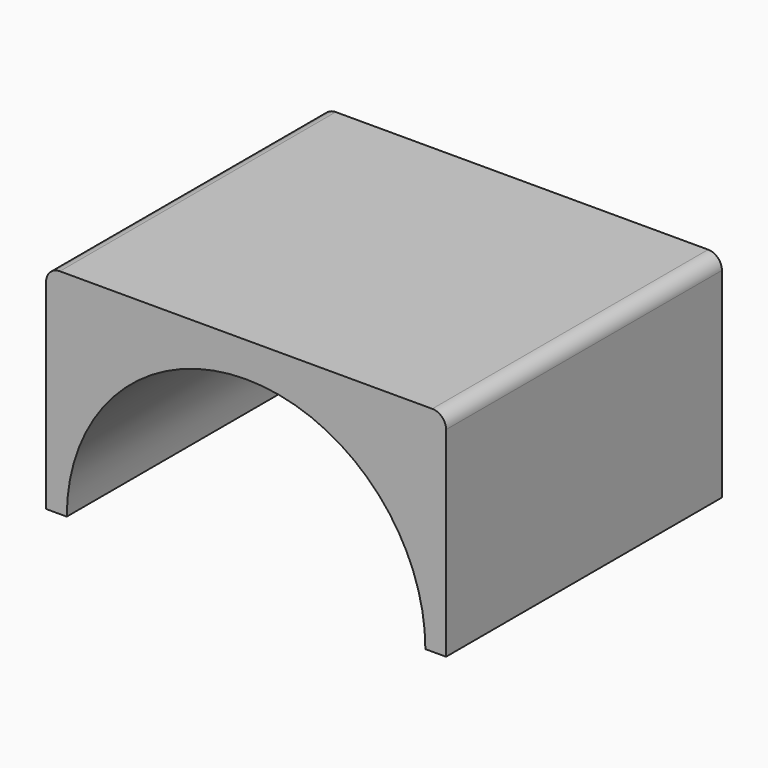
from build123d import *

# Parameters (mm, degrees)
CYLINDER_R     = 26
CYLINDER_DEPTH = 50
BOX_W          = 58
BOX_H          = 50
BOX_DEPTH      = 31
FILLET_R       = 2


with BuildPart() as cylinder:
    # Cylinder → Cylinder (new body)
    with BuildSketch(Plane.XZ.offset(-25)):
        Circle(CYLINDER_R)
    extrude(amount=CYLINDER_DEPTH)


with BuildPart() as obj1:
    # Box → Box (new body)
    with BuildSketch(Plane(origin=(-29, -25, 0), x_dir=(1, 0, 0), z_dir=(0, 0, 1))):
        with Locations((29, 25)):
            Rectangle(BOX_W, BOX_H)
    extrude(amount=BOX_DEPTH)

    # Fillet
    fillet_edges = [obj1.edges().sort_by_distance(p)[0] for p in [
        (-29, 0, 31),
        (29, 0, 31),
    ]]
    fillet(fillet_edges, radius=FILLET_R)

    # Cut: cut Cylinder
    add(cylinder.part, mode=Mode.SUBTRACT)


solid = obj1.part
